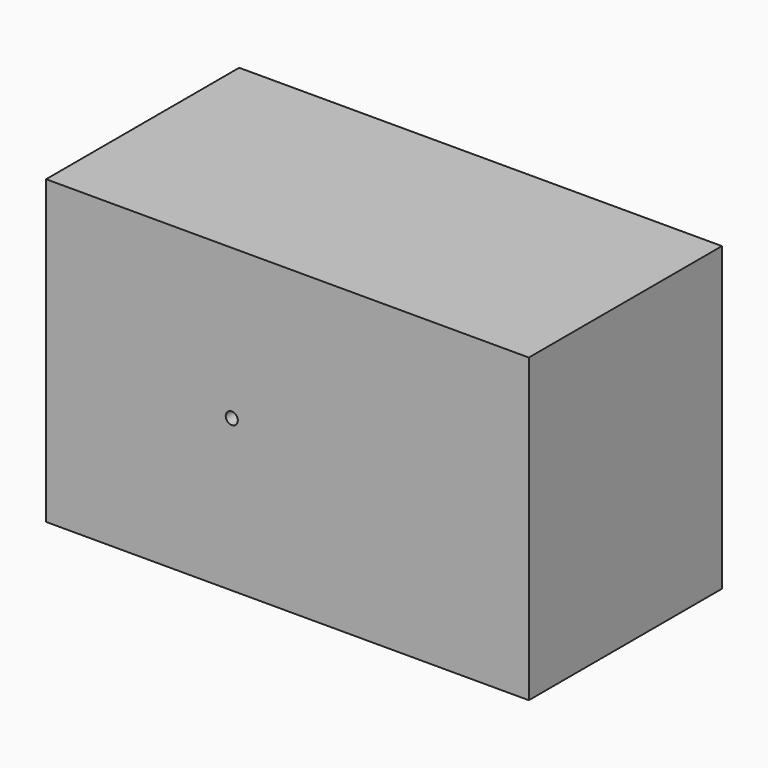
from build123d import *

# Parameters (mm, degrees)
F0_W     = 200
F0_H     = 100
F1_DEPTH = 50
F3_D     = 5
F3_DEPTH = 18
F3_TIP   = 1.5021515476
F4_DEPTH = 25


with BuildPart() as f1:
    # F0 (on Front) → F1 (new body, symmetric)
    with BuildSketch(Plane.XZ):
        Rectangle(F0_W, F0_H)
    extrude(amount=F1_DEPTH, both=True)

    # F3
    with Locations(Plane.XZ.offset(50)):
        with Locations((-23.0699349195, 12.8359030932)):
            Hole(F3_D / 2, depth=F3_DEPTH)
            with Locations((0, 0, -(F3_DEPTH + F3_TIP / 2))):  # 118° drill point
                Cone(0, F3_D / 2, F3_TIP, mode=Mode.SUBTRACT)

    # F4 (add): a face of the model
    f4_faces = [f1.faces().sort_by_distance(p)[0] for p in [
        (0, 0, 50),
    ]]
    extrude(f4_faces, amount=F4_DEPTH)


solid = f1.part
